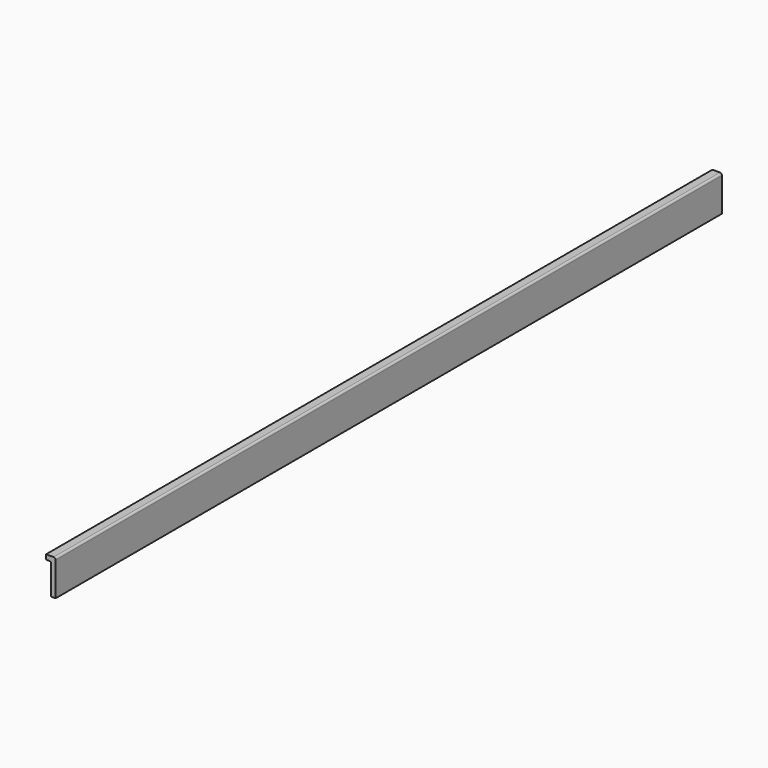
from build123d import *

# Parameters (mm, degrees)
F1_DEPTH = 1750
F2_R     = 4
F3_R     = 2


with BuildPart() as f1:
    # F0 (on Front) → F1 (new body)
    with BuildSketch(Plane.XZ):
        Polygon((0, 0), (-20, 0), (-20, -10), (-10, -10), (-10, -75), (0, -75), align=None)
    extrude(amount=F1_DEPTH)

    # F2
    f2_edges = [f1.edges().sort_by_distance(p)[0] for p in [
        (0, -875, 0),
    ]]
    fillet(f2_edges, radius=F2_R)

    # F3
    f3_edges = [f1.edges().sort_by_distance(p)[0] for p in [
        (-10, -875, -10),
    ]]
    fillet(f3_edges, radius=F3_R)


solid = f1.part
